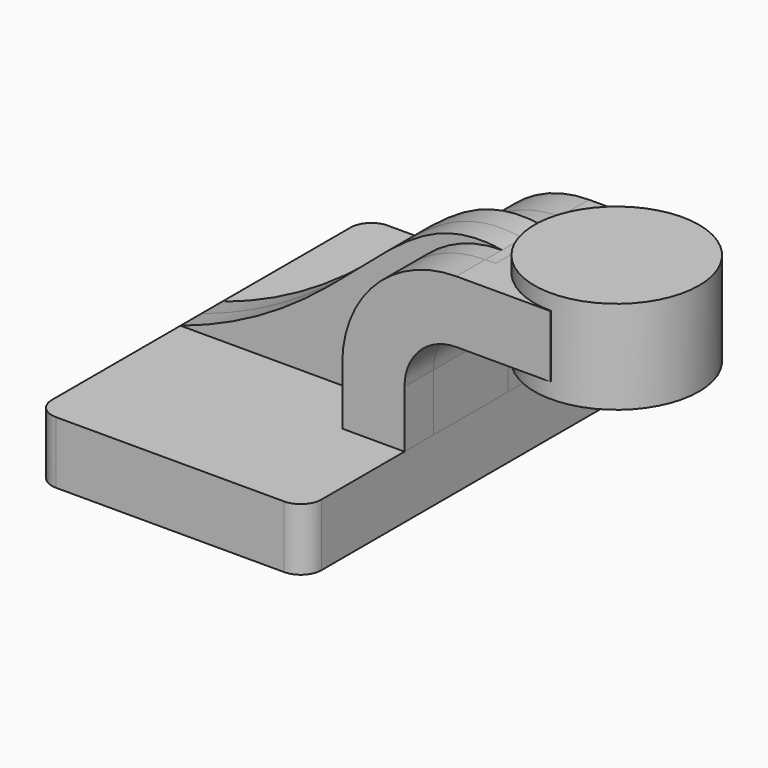
from build123d import *

# Parameters (mm, degrees)
F1_DEPTH = 63.5
F0_W     = 25.6108161688
F0_H     = 19.05
F2_DEPTH = 25.4
F3_DEPTH = 7.9375
F4_DEPTH = 14.2875
F6_R     = 6.35


with BuildPart() as f1:
    # F0 (on Front) → F1 (new body, symmetric)
    with BuildSketch(Plane.XZ):
        Polygon((-41.275, 9.525), (-41.275, -9.525), (41.275, -9.525), (41.275, 9.525), (22.225, 9.525), align=None)
    extrude(amount=F1_DEPTH, both=True)

    # F0 (on Front) → F3 (join, symmetric)
    with BuildSketch(Plane.XZ):
        with BuildLine():
            add(Edge.make_bspline(
                [(-41.275, 9.525), (14.1316680238, 27.6904311031), (22.1523437649, 67.793816328), (57.15, 61.9252)],
                knots=[0, 0, 0, 0, 111.5045361635, 111.5045361635, 111.5045361635, 111.5045361635], degree=3))
            Line((-41.275, 9.525), (22.225, 9.525))
            Line((22.225, 9.525), (22.225, 27.0002))
            ThreePointArc((22.225, 27.0002), (32.4542956671, 51.6959043329), (57.15, 61.9252))
        make_face()
    extrude(amount=F3_DEPTH, both=True)

    # F6
    f6_edges = [f1.edges().sort_by_distance(p)[0] for p in [
        (41.275, -63.5, 0),
        (-41.275, -63.5, 0),
        (41.275, 63.5, 0),
        (-41.275, 63.5, 0),
    ]]
    fillet(f6_edges, radius=F6_R)


with BuildPart() as f2:
    # F0 (on Front) → F2 (new body, symmetric)
    with BuildSketch(Plane.XZ):
        with Locations((73.1304080844, 52.4002)):
            Rectangle(F0_W, F0_H)
        with BuildLine():
            Line((22.225, 9.525), (41.275, 9.525))
            Line((41.275, 9.525), (41.275, 27.0002))
            ThreePointArc((41.275, 27.0002), (45.9246798487, 38.2255201513), (57.15, 42.8752))
            Line((57.15, 42.8752), (60.325, 42.8752))
            Line((60.325, 42.8752), (60.325, 61.9252))
            Line((60.325, 61.9252), (57.15, 61.9252))
            ThreePointArc((57.15, 61.9252), (32.4542956671, 51.6959043329), (22.225, 27.0002))
            Line((22.225, 27.0002), (22.225, 9.525))
        make_face()
    extrude(amount=F2_DEPTH, both=True)

    # F0 (on Front) → F5 (revolve)
    with BuildSketch(Plane.XZ):
        Polygon((85.9358161688, 66.675), (85.9358161688, 61.9252), (85.9358161688, 42.8752), (85.9358161688, 38.1), (111.125, 38.1), (111.125, 66.675), align=None)
    revolve(axis=Axis((85.9358161688, 0, 52.3875), (0, 0, 1)))


with BuildPart() as f4:
    # F0 (on Front) → F4 (new body, symmetric)
    with BuildSketch(Plane.XZ):
        with BuildLine():
            Line((22.225, 9.525), (41.275, 9.525))
            Line((41.275, 9.525), (41.275, 27.0002))
            ThreePointArc((41.275, 27.0002), (45.9246798487, 38.2255201513), (57.15, 42.8752))
            Line((57.15, 42.8752), (60.325, 42.8752))
            Line((60.325, 42.8752), (60.325, 61.9252))
            Line((60.325, 61.9252), (57.15, 61.9252))
            ThreePointArc((57.15, 61.9252), (32.4542956671, 51.6959043329), (22.225, 27.0002))
            Line((22.225, 27.0002), (22.225, 9.525))
        make_face()
    extrude(amount=F4_DEPTH, both=True)


solid = Compound([f1.part, f2.part, f4.part])
